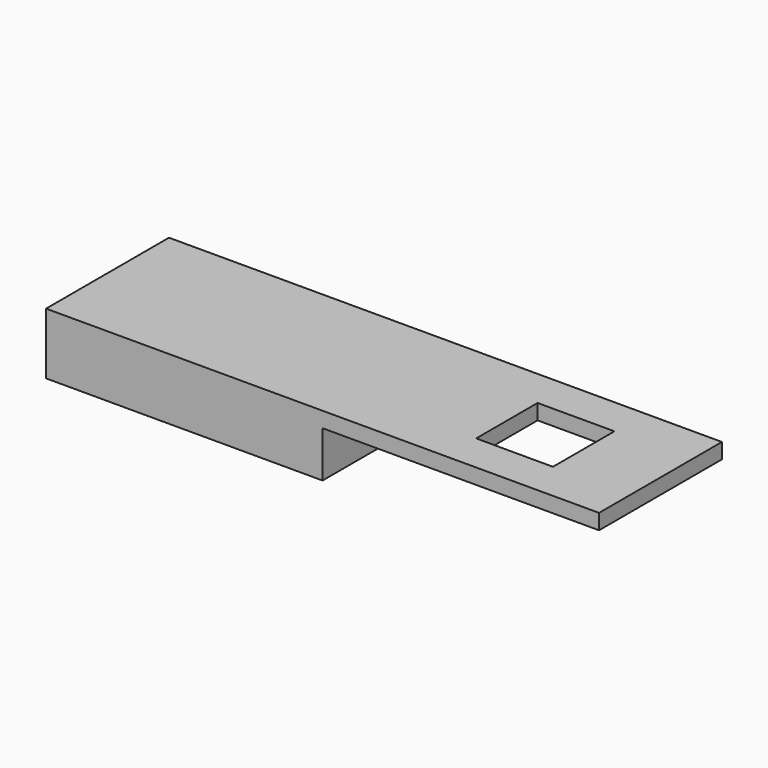
from build123d import *

# Parameters (mm, degrees)
F1_DEPTH = 10
F2_W     = 5
F2_H     = 5
F3_DEPTH = 10


with BuildPart() as f1:
    # F0 (on Front) → F1 (new body)
    with BuildSketch(Plane.XZ):
        Polygon((8.260759, 4), (8.260759, 0), (16.521518, 0), (26.260759, 0), (26.260759, 3), (44.260759, 3), (44.260759, 4), (18, 4), align=None)
    extrude(amount=-F1_DEPTH)

    # F2 (on face) → F3 (cut)
    with BuildSketch(Plane.XY.offset(4)):
        with Locations((36.760759, 5)):
            Rectangle(F2_W, F2_H)
    extrude(amount=-F3_DEPTH, mode=Mode.SUBTRACT)


solid = f1.part
